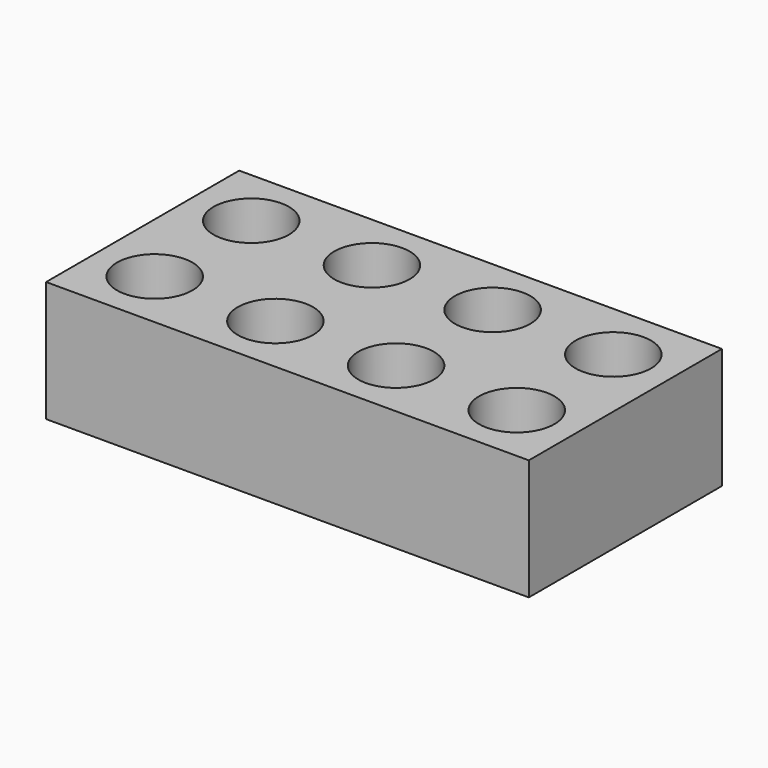
from build123d import *

# Parameters (mm, degrees)
F0_W     = 32
F0_H     = 16
F0_R     = 2.5
F1_DEPTH = 8


with BuildPart() as f1:
    # F0 (on Top) → F1 (new body)
    with BuildSketch(Plane.XY):
        Rectangle(F0_W, F0_H)
        with Locations((-12, -4)):
            Circle(F0_R, mode=Mode.SUBTRACT)
        with Locations((-4, -4)):
            Circle(F0_R, mode=Mode.SUBTRACT)
        with Locations((4, -4)):
            Circle(F0_R, mode=Mode.SUBTRACT)
        with Locations((12, -4)):
            Circle(F0_R, mode=Mode.SUBTRACT)
        with Locations((-12, 4)):
            Circle(F0_R, mode=Mode.SUBTRACT)
        with Locations((-4, 4)):
            Circle(F0_R, mode=Mode.SUBTRACT)
        with Locations((4, 4)):
            Circle(F0_R, mode=Mode.SUBTRACT)
        with Locations((12, 4)):
            Circle(F0_R, mode=Mode.SUBTRACT)
    extrude(amount=F1_DEPTH)


solid = f1.part
